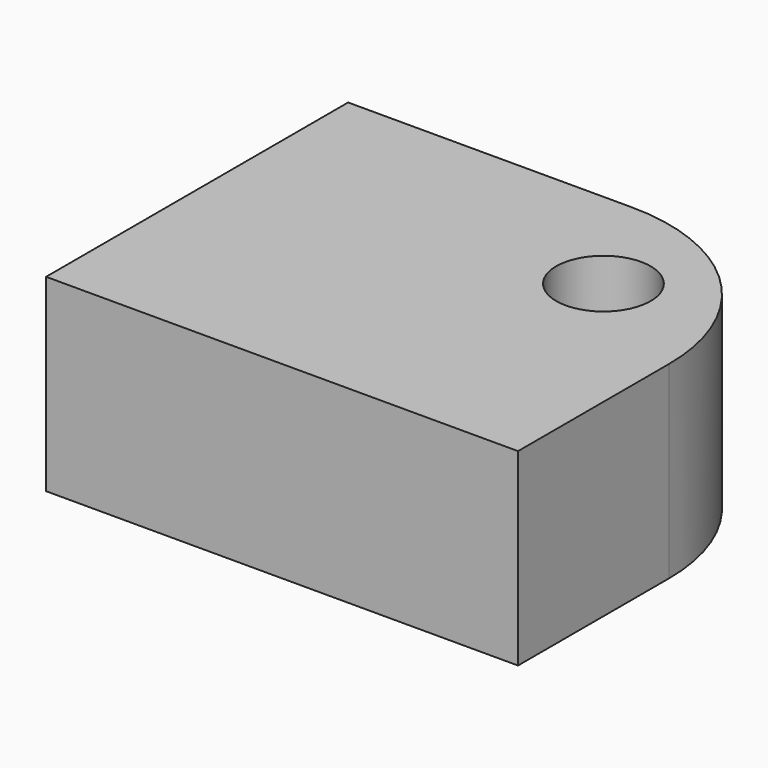
from build123d import *

# Parameters (mm, degrees)
F0_W     = 77.6591151953
F0_H     = 11.8106603622
F1_DEPTH = 101.6
F2_DEPTH = 38.989
F3_DEPTH = 1.4478
F4_DEPTH = 50.8
F5_R     = 50.8
F7_D     = 25.4


with BuildPart() as f1:
    # F0 (on Front) → F1 (new body)
    with BuildSketch(Plane.XZ):
        with Locations((38.8295575976, 5.9053301811)):
            Rectangle(F0_W, F0_H)
    extrude(amount=F1_DEPTH)

    # F2 (add): a face of the model
    f2_faces = [f1.faces().sort_by_distance(p)[0] for p in [
        (38.8295575976, -50.8, 11.8106603622),
    ]]
    extrude(f2_faces, amount=F2_DEPTH)

    # F3 (cut): a face of the model
    f3_faces = [f1.faces().sort_by_distance(p)[0] for p in [
        (77.6591151953, -50.8, 25.3998301811),
    ]]
    extrude(f3_faces, amount=-F3_DEPTH, mode=Mode.SUBTRACT)

    # F4 (add): a face of the model
    f4_faces = [f1.faces().sort_by_distance(p)[0] for p in [
        (76.2113151953, -50.8, 25.3998301811),
    ]]
    extrude(f4_faces, amount=F4_DEPTH)

    # F5
    f5_edges = [f1.edges().sort_by_distance(p)[0] for p in [
        (127.011315, 0, 25.39983),
    ]]
    fillet(f5_edges, radius=F5_R)

    # F7 (through all)
    with Locations(Plane(origin=(0, 0, 0), x_dir=(1, 0, 0), z_dir=(0, 0, -1))):
        with Locations((93.4151336551, 30.8703370392)):
            Hole(F7_D / 2)


solid = f1.part
